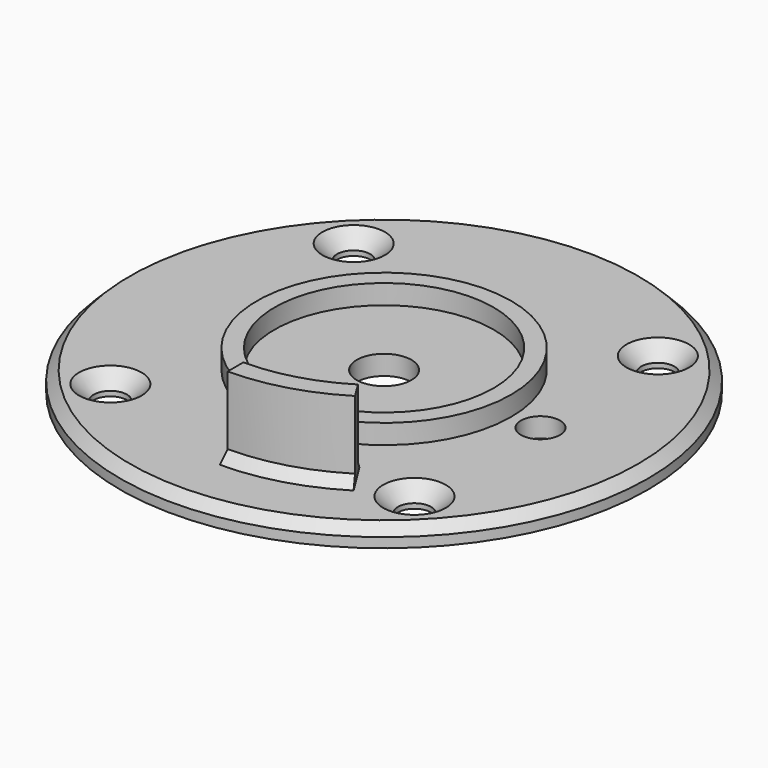
from build123d import *

# Parameters (mm, degrees)
CYLINDER_R      = 27
CYLINDER_DEPTH  = 2
SKETCH_R        = 1.7
SKETCH_R_2      = 2.8
SKETCH_R_3      = 2
POCKET_DEPTH    = 2.001
SKETCH001_R     = 13
SKETCH001_R_2   = 11.2
PAD_DEPTH       = 2
PAD001_DEPTH    = 8
CHAMFER_SIZE    = 1
CHAMFER001_SIZE = 1.5


with BuildPart() as part:
    # Cylinder → Cylinder (new body)
    with BuildSketch(Plane.XY):
        Circle(CYLINDER_R)
    extrude(amount=CYLINDER_DEPTH)

    # Sketch → Pocket (cut, through all)
    with BuildSketch(Plane.XY.offset(2)):
        with Locations((-15.556349, 15.556349)):
            Circle(SKETCH_R)
        with Locations((-15.556349, -15.556349)):
            Circle(SKETCH_R)
        with Locations((15.556349, -15.556349)):
            Circle(SKETCH_R)
        with Locations((15.556349, 15.556349)):
            Circle(SKETCH_R)
        Circle(SKETCH_R_2)
        with Locations((16, 0)):
            Circle(SKETCH_R_3)
    extrude(amount=-POCKET_DEPTH, mode=Mode.SUBTRACT)

    # Sketch001 → Pad (new body)
    with BuildSketch(Plane.XY.offset(2)):
        Circle(SKETCH001_R)
        Circle(SKETCH001_R_2, mode=Mode.SUBTRACT)
    extrude(amount=PAD_DEPTH)

    # Sketch002 → Pad001 (new body)
    with BuildSketch(Plane.XY.offset(2)):
        with BuildLine():
            ThreePointArc((0, -20), (5.512747, -19.225234), (10.598385, -16.960962))
            Line((10.598385, -16.960962), (9.538547, -15.264866))
            ThreePointArc((0, -18), (4.961472, -17.302711), (9.538547, -15.264866))
            Line((0, -20), (0, -18))
        make_face()
    extrude(amount=PAD001_DEPTH)

    # Chamfer
    chamfer_edges = [part.edges().sort_by_distance(p)[0] for p in [
        (-27, 0, 2),
        (5.512747, -19.225234, 2),
        (4.961472, -17.302711, 2),
    ]]
    chamfer(chamfer_edges, length=CHAMFER_SIZE)

    # Chamfer001
    chamfer001_edges = [part.edges().sort_by_distance(p)[0] for p in [
        (-17.256349, 15.556349, 2),
        (-17.256349, -15.556349, 2),
        (13.856349, 15.556349, 2),
        (13.856349, -15.556349, 2),
    ]]
    chamfer(chamfer001_edges, length=CHAMFER001_SIZE)


solid = part.part
